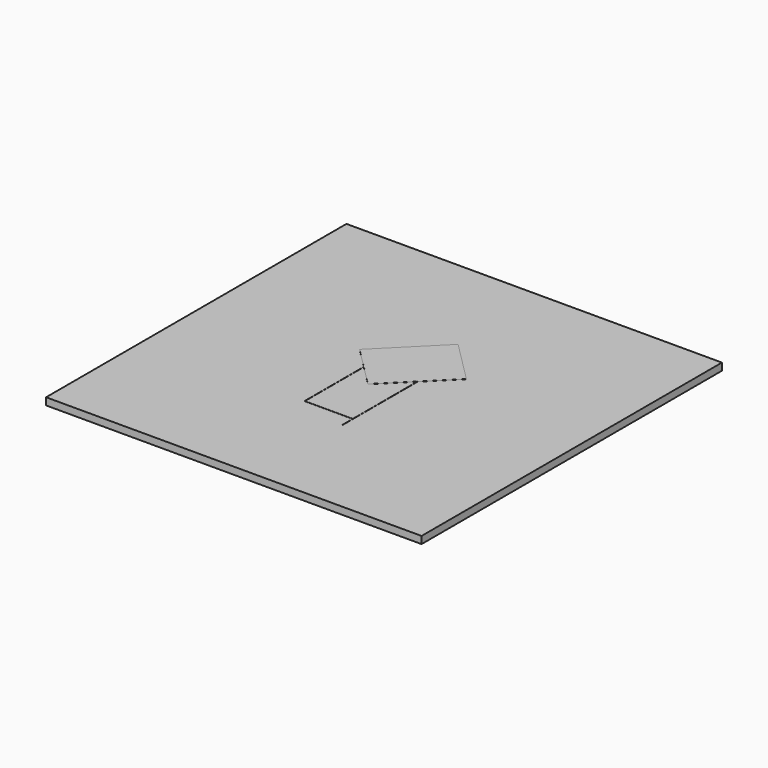
from build123d import *

# Parameters (mm, degrees)
EXTRUDE_DEPTH       = 0.035
EXTRUDE001_DEPTH    = 0.035
CUT_PLACEMENT_ANGLE = 45
SKETCH001_W         = 80
SKETCH001_H         = 80
EXTRUDE002_DEPTH    = 1.5
SKETCH004_W         = 80
SKETCH004_H         = 80
EXTRUDE003_DEPTH    = 0.035


with BuildPart() as extrude_body:
    # Sketch003 (on Sketch) → Extrude (new body)
    with BuildSketch(Plane.XY):
        Polygon((-11.098886, -17.437815), (-3.882812, -24.65353), (8.19241, -12.57608), (0, -12.57608), (0, -6.340836), align=None)
    extrude(amount=EXTRUDE_DEPTH)


with BuildPart() as antennasolid:
    # Sketch002 → Extrude001 (new body)
    with BuildSketch(Plane.XY):
        Polygon((0, 0), (0, -6.239947), (-11.189508, -17.432114), (-3.92562, -24.697956), (-5.910147, -26.67951), (-5.860354, -26.728765), (8.290281, -12.579739), (16.484316, -12.579739), (16.484316, 0), align=None)
    extrude(amount=EXTRUDE001_DEPTH)

    # Cut: cut Extrude body
    add(extrude_body.part, mode=Mode.SUBTRACT)


with BuildPart() as antennasolid_1:
    # Cut placement: moved
    add(antennasolid.part.moved(Location((-10, 6, 0))).rotate(Axis((-10, 6, 0), (0, 0, 1)), CUT_PLACEMENT_ANGLE))


with BuildPart() as substratesolid:
    # Sketch001 (on Sketch) → Extrude002 (new body)
    with BuildSketch(Plane.XY):
        Rectangle(SKETCH001_W, SKETCH001_H)
    extrude(amount=-EXTRUDE002_DEPTH)


with BuildPart() as gndsolid:
    # Sketch004 (on Sketch) → Extrude003 (new body)
    with BuildSketch(Plane.XY):
        Rectangle(SKETCH004_W, SKETCH004_H)
    extrude(amount=-EXTRUDE003_DEPTH)


with BuildPart() as gndsolid_1:
    # Extrude003 placement: moved
    add(gndsolid.part.moved(Location((0, 0, -1.5))))


solid = Compound([antennasolid_1.part, substratesolid.part, gndsolid_1.part])
